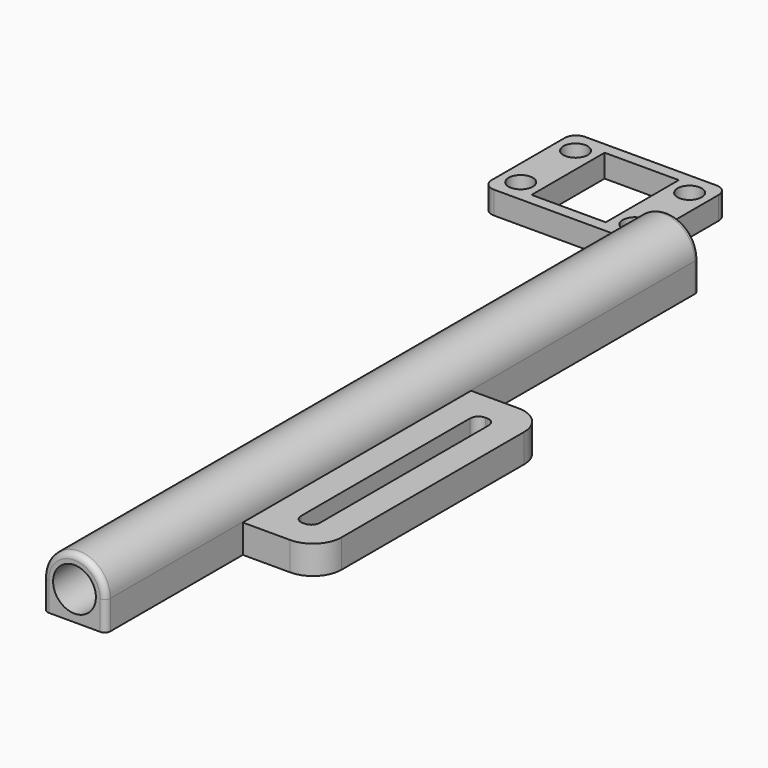
from build123d import *

# Parameters (mm, degrees)
PAD_DEPTH       = 130
SKETCH001_R     = 2.25
POCKET_DEPTH    = 5
SKETCH002_R     = 3.5
POCKET001_DEPTH = 114
SKETCH003_R     = 3.75
POCKET002_DEPTH = 11
SKETCH004_W     = 13.3
SKETCH004_H     = 50
SKETCH004_W_2   = 3.3
SKETCH004_H_2   = 40
PAD001_DEPTH    = 5
FILLET_R        = 5
FILLET001_R     = 1.5
FILLET002_R     = 1
SKETCH005_W     = 27
SKETCH005_H     = 20
SKETCH005_R     = 2.125
SKETCH005_W_2   = 13
SKETCH005_H_2   = 16
PAD002_DEPTH    = 4
FILLET003_R     = 2


with BuildPart() as penholder:
    # Sketch → Pad (new body)
    with BuildSketch(Plane.XZ):
        with BuildLine():
            ThreePointArc((11, 5.1), (5.5, 10.6), (0, 5.1))
            Line((0, 0), (0, 5.1))
            Line((0, 0), (11, 0))
            Line((11, 5.1), (11, 0))
        make_face()
    extrude(amount=PAD_DEPTH)

    # Sketch001 (on Face5 of Pad) → Pocket (cut)
    with BuildSketch(Plane(origin=(0, 0, 0), x_dir=(1, 0, 0), z_dir=(0, 1, 0))):
        with Locations((5.5, -5.1)):
            Circle(SKETCH001_R)
    extrude(amount=-POCKET_DEPTH, mode=Mode.SUBTRACT)

    # Sketch002 (on Face8 of Pocket) → Pocket001 (cut)
    with BuildSketch(Plane(origin=(0, -5, 0), x_dir=(1, 0, 0), z_dir=(0, 1, 0))):
        with Locations((5.5, -5.1)):
            Circle(SKETCH002_R)
    extrude(amount=-POCKET001_DEPTH, mode=Mode.SUBTRACT)

    # Sketch003 (on Face5 of Pocket001) → Pocket002 (cut)
    with BuildSketch(Plane.XZ.offset(130)):
        with Locations((5.5, 5.1)):
            Circle(SKETCH003_R)
    extrude(amount=-POCKET002_DEPTH, mode=Mode.SUBTRACT)

    # Sketch004 → Pad001 (join)
    with BuildSketch(Plane.XY):
        with Locations((17.65, -75)):
            Rectangle(SKETCH004_W, SKETCH004_H)
        with Locations((17.65, -75)):
            Rectangle(SKETCH004_W_2, SKETCH004_H_2, mode=Mode.SUBTRACT)
    extrude(amount=PAD001_DEPTH)

    # Fillet
    fillet_edges = [penholder.edges().sort_by_distance(p)[0] for p in [
        (24.3, -50, 2.5),
        (24.3, -100, 2.5),
    ]]
    fillet(fillet_edges, radius=FILLET_R)

    # Fillet001
    fillet001_edges = [penholder.edges().sort_by_distance(p)[0] for p in [
        (16, -95, 2.5),
        (19.3, -95, 2.5),
        (19.3, -55, 2.5),
        (16, -55, 2.5),
    ]]
    fillet(fillet001_edges, radius=FILLET001_R)

    # Fillet002
    fillet002_edges = [penholder.edges().sort_by_distance(p)[0] for p in [
        (5.5, -130, 10.6),
        (11, -130, 2.55),
        (11, 0, 2.55),
        (5.5, 0, 10.6),
        (0, 0, 2.55),
        (0, -130, 2.55),
    ]]
    fillet(fillet002_edges, radius=FILLET002_R)


with BuildPart() as nutsholder:
    # Sketch005 → Pad002 (new body)
    with BuildSketch(Plane.XY):
        with Locations((-13.5, 10)):
            Rectangle(SKETCH005_W, SKETCH005_H)
        with Locations((-23.5, 16)):
            Circle(SKETCH005_R, mode=Mode.SUBTRACT)
        with Locations((-23.5, 4)):
            Circle(SKETCH005_R, mode=Mode.SUBTRACT)
        with Locations((-3.5, 4)):
            Circle(SKETCH005_R, mode=Mode.SUBTRACT)
        with Locations((-3.5, 16)):
            Circle(SKETCH005_R, mode=Mode.SUBTRACT)
        with Locations((-13.5, 10)):
            Rectangle(SKETCH005_W_2, SKETCH005_H_2, mode=Mode.SUBTRACT)
    extrude(amount=PAD002_DEPTH)

    # Fillet003
    fillet003_edges = [nutsholder.edges().sort_by_distance(p)[0] for p in [
        (-27, 20, 2),
        (-27, 0, 2),
        (0, 0, 2),
        (0, 20, 2),
    ]]
    fillet(fillet003_edges, radius=FILLET003_R)


solid = Compound([penholder.part, nutsholder.part])
